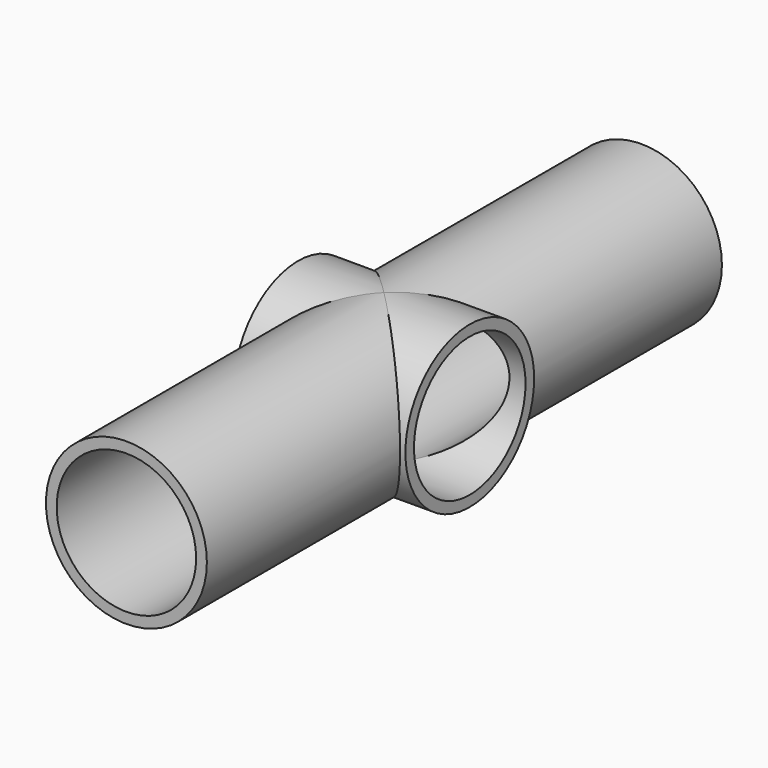
from build123d import *

# Parameters (mm, degrees)
F0_R     = 19.05
F1_DEPTH = 76.2
F2_R     = 19.05
F3_DEPTH = 20.32
F4_DEPTH = 76.2
F5_D     = 33.02
F5_DEPTH = 20.321
F6_D     = 33.02
F7_D     = 33.02
F7_DEPTH = 76.201
F8_D     = 33.02


with BuildPart() as f1:
    # F0 (on Front) → F1 (new body)
    with BuildSketch(Plane.XZ):
        Circle(F0_R)
    extrude(amount=F1_DEPTH)

    # F2 (on Right) → F3 (join, symmetric)
    with BuildSketch(Plane.YZ):
        Circle(F2_R)
    extrude(amount=F3_DEPTH, both=True)

    # F0 (on Front) → F4 (join)
    with BuildSketch(Plane.XZ):
        Circle(F0_R)
    extrude(amount=-F4_DEPTH)

    # F5 (through all, one way)
    with BuildSketch(Plane(origin=(0, 0, 0), x_dir=(0, 1, 0), z_dir=(-1, 0, 0))):
        with Locations((0, 0)):
            Circle(F5_D / 2)
    extrude(amount=-F5_DEPTH, mode=Mode.SUBTRACT)

    # F6 (through all)
    with Locations(Plane.YZ):
        with Locations((0, 0)):
            Hole(F6_D / 2)

    # F7 (through all, one way)
    with BuildSketch(Plane(origin=(0, 0, 0), x_dir=(1, 0, 0), z_dir=(0, 1, 0))):
        with Locations((0, 0)):
            Circle(F7_D / 2)
    extrude(amount=-F7_DEPTH, mode=Mode.SUBTRACT)

    # F8 (through all)
    with Locations(Plane.XZ):
        with Locations((0, 0)):
            Hole(F8_D / 2)


solid = f1.part
